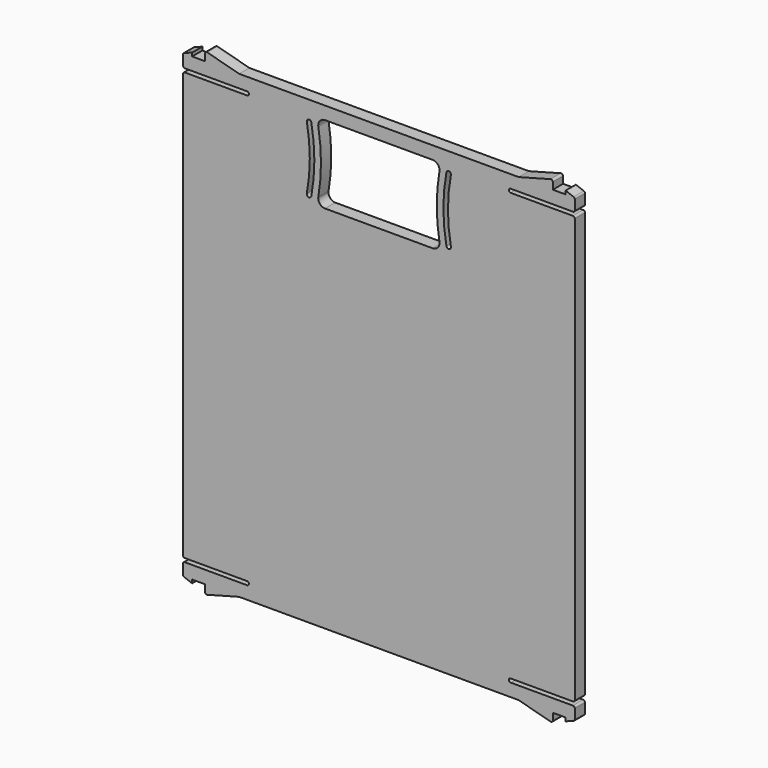
from build123d import *

# Parameters (mm, degrees)
PAD008_DEPTH    = 2.8
FILLET001_R     = 0.4
POCKET004_DEPTH = 2.801


with BuildPart() as part:
    # Sketch008 (on Face4 of ShapeBinder007) → Pad008 (new body)
    with BuildSketch(Plane(origin=(0, 20.211282, 0), x_dir=(-1, 0, 0), z_dir=(0, 1, 0))):
        with BuildLine():
            Line((42.8, 63.127675), (42.8, 60.327675))
            Line((42.8, 60.327675), (28.8, 60.327675))
            ThreePointArc((28.8, 60.327675), (28.4, 59.927675), (28.8, 59.527675))
            Line((28.8, 59.527675), (42.8, 59.527675))
            Line((42.8, 59.527675), (42.8, -33.872325))
            Line((42.8, -33.872325), (28.8, -33.872325))
            ThreePointArc((28.8, -33.872325), (28.4, -34.272325), (28.8, -34.672325))
            Line((28.8, -34.672325), (42.8, -34.672325))
            Line((42.8, -34.672325), (42.8, -37.472325))
            Line((42.8, -37.472325), (40.8, -38.222325))
            Line((40.8, -38.222325), (40.8, -37.472325))
            Line((40.8, -37.472325), (38, -37.472325))
            Line((38, -39.472325), (38, -37.472325))
            Line((30.535898, -37.472325), (38, -39.472325))
            Line((-30.535898, -37.472325), (30.535898, -37.472325))
            Line((-38, -39.472325), (-30.535898, -37.472325))
            Line((-38, -37.472325), (-38, -39.472325))
            Line((-40.8, -37.472325), (-38, -37.472325))
            Line((-40.8, -38.222325), (-40.8, -37.472325))
            Line((-42.8, -37.472325), (-40.8, -38.222325))
            Line((-42.8, -37.472325), (-42.8, -34.672325))
            Line((-42.8, -34.672325), (-28.8, -34.672325))
            ThreePointArc((-28.8, -34.672325), (-28.4, -34.272325), (-28.8, -33.872325))
            Line((-28.8, -33.872325), (-42.8, -33.872325))
            Line((-42.8, -33.872325), (-42.8, 59.527675))
            Line((-28.8, 59.527675), (-42.8, 59.527675))
            ThreePointArc((-28.8, 59.527675), (-28.4, 59.927675), (-28.8, 60.327675))
            Line((-42.8, 60.327675), (-28.8, 60.327675))
            Line((-42.8, 60.327675), (-42.8, 63.127675))
            Line((-42.8, 63.127675), (-40.8, 63.877675))
            Line((-40.8, 63.877675), (-40.8, 63.127675))
            Line((-40.8, 63.127675), (-38, 63.127675))
            Line((-38, 65.127675), (-38, 63.127675))
            Line((-30.535898, 63.127675), (-38, 65.127675))
            Line((30.535898, 63.127675), (-30.535898, 63.127675))
            Line((38, 65.127675), (30.535898, 63.127675))
            Line((38, 63.127675), (38, 65.127675))
            Line((40.8, 63.127675), (38, 63.127675))
            Line((40.8, 63.877675), (40.8, 63.127675))
            Line((42.8, 63.127675), (40.8, 63.877675))
        make_face()
    extrude(amount=-PAD008_DEPTH)

    # Fillet001
    fillet001_edges = [part.edges().sort_by_distance(p)[0] for p in [
        (-38, 18.811282, -39.472325),
        (-42.8, 18.811282, -37.472325),
        (-42.8, 18.811282, -34.672325),
        (-42.8, 18.811282, -33.872325),
        (-42.8, 18.811282, 59.527675),
        (-42.8, 18.811282, 60.327675),
        (-42.8, 18.811282, 63.127675),
        (-38, 18.811282, 65.127675),
        (42.8, 18.811282, 59.527675),
        (42.8, 18.811282, 60.327675),
        (42.8, 18.811282, 63.127675),
        (38, 18.811282, 65.127675),
        (42.8, 18.811282, -33.872325),
        (42.8, 18.811282, -34.672325),
        (42.8, 18.811282, -37.472325),
        (38, 18.811282, -39.472325),
    ]]
    fillet(fillet001_edges, radius=FILLET001_R)

    # Sketch017 (on Face2 of Fillet001) → Pocket004 (cut, through all)
    with BuildSketch(Plane(origin=(0, 20.211282, 0), x_dir=(-1, 0, 0), z_dir=(0, 1, 0))):
        with BuildLine():
            ThreePointArc((-11.75, 60.327675), (-12.81066, 59.888335), (-13.25, 58.827675))
            ThreePointArc((-13.25, 58.827675), (-13.24452, 58.699573), (-13.22812, 58.572408))
            ThreePointArc((-13.22812, 45.082943), (-12.65, 51.827675), (-13.22812, 58.572408))
            ThreePointArc((-13.22812, 45.082943), (-13.24452, 44.955777), (-13.25, 44.827675))
            ThreePointArc((-13.25, 44.827675), (-12.81066, 43.767015), (-11.75, 43.327675))
            Line((11.75, 43.327675), (-11.75, 43.327675))
            ThreePointArc((11.75, 43.327675), (12.81066, 43.767015), (13.25, 44.827675))
            ThreePointArc((13.25, 44.827675), (13.24452, 44.955777), (13.22812, 45.082943))
            ThreePointArc((13.22812, 58.572408), (12.65, 51.827675), (13.22812, 45.082943))
            ThreePointArc((13.22812, 58.572408), (13.24452, 58.699573), (13.25, 58.827675))
            ThreePointArc((13.25, 58.827675), (12.81066, 59.888335), (11.75, 60.327675))
            Line((-11.75, 60.327675), (11.75, 60.327675))
        make_face()
        with BuildLine():
            ThreePointArc((-14.7587, 44.73481), (-14.09424, 51.827675), (-14.7587, 58.92054))
            ThreePointArc((-14.7587, 58.92054), (-15.342865, 59.318975), (-15.7413, 58.73481))
            ThreePointArc((-15.7413, 44.92054), (-15.09424, 51.827675), (-15.7413, 58.73481))
            ThreePointArc((-15.7413, 44.92054), (-15.342865, 44.336375), (-14.7587, 44.73481))
        make_face()
        with BuildLine():
            ThreePointArc((14.7587, 58.92054), (14.09424, 51.827675), (14.7587, 44.73481))
            ThreePointArc((14.7587, 44.73481), (15.342865, 44.336375), (15.7413, 44.92054))
            ThreePointArc((15.7413, 58.73481), (15.09424, 51.827675), (15.7413, 44.92054))
            ThreePointArc((15.7413, 58.73481), (15.342865, 59.318975), (14.7587, 58.92054))
        make_face()
    extrude(amount=-POCKET004_DEPTH, mode=Mode.SUBTRACT)


solid = part.part
